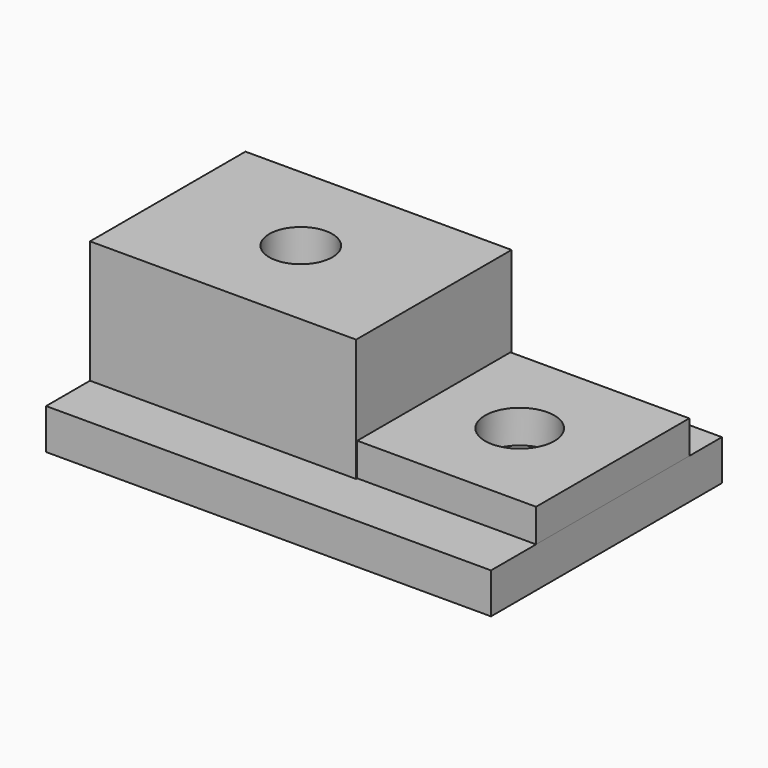
from build123d import *

# Parameters (mm, degrees)
F0_W     = 55.088852
F0_H     = 40.223607
F0_R     = 6.52573
F1_DEPTH = 25.4
F2_W     = 37.017379
F2_H     = 39.640654
F2_R     = 7.169346
F3_DEPTH = 6.858
F4_W     = 92.106231
F4_H     = 59.752459
F5_DEPTH = 8.382


with BuildPart() as f1:
    # F0 (on Top) → F1 (new body)
    with BuildSketch(Plane.XY):
        with Locations((-27.544426, 6.558197)):
            Rectangle(F0_W, F0_H)
        with Locations((-27.544426, 6.558198)):
            Circle(F0_R, mode=Mode.SUBTRACT)
    extrude(amount=F1_DEPTH)

    # F2 (on Top) → F3 (join)
    with BuildSketch(Plane.XY):
        with Locations((18.508689, 6.558197)):
            Rectangle(F2_W, F2_H)
        with Locations((17.78, 6.558197)):
            Circle(F2_R, mode=Mode.SUBTRACT)
    extrude(amount=F3_DEPTH)

    # F4 (on face) → F5 (join)
    with BuildSketch(Plane(origin=(0, 0, 0), x_dir=(1, 0, 0), z_dir=(0, 0, -1))):
        with Locations((-9.035736, -4.955082)):
            Rectangle(F4_W, F4_H)
    extrude(amount=F5_DEPTH)


solid = f1.part
